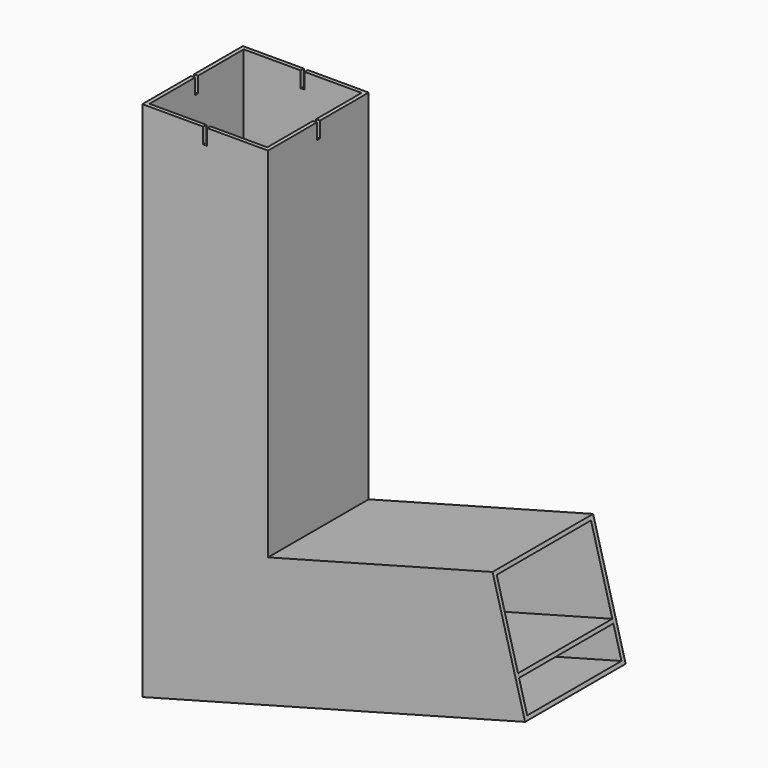
from build123d import *

# Parameters (mm, degrees)
F0_W     = 101.6
F0_H     = 101.6
F0_W_2   = 95.25
F0_H_2   = 95.25
F3_W     = 95.25
F3_H     = 3.175
F3_W_2   = 3.175
F4_DEPTH = 203.2
F5_W     = 3.175
F5_H     = 12.7
F6_DEPTH = 101.601
F7_W     = 3.175
F7_H     = 12.7
F8_DEPTH = 309.2941673686


with BuildPart() as f2:
    # F2: sweep along a path in F1
    with BuildLine(Plane.XZ) as f2_path:
        Line((0, 0), (0, -355.6))
        Line((0, -355.6), (245.3451598774, -289.859962544))
    # F0 (on Top) → F2 (sweep)
    with BuildSketch(Plane.XY):
        Rectangle(F0_W, F0_H)
        Rectangle(F0_W_2, F0_H_2, mode=Mode.SUBTRACT)
    sweep(path=f2_path.line, transition=Transition.RIGHT)

    # F3 (on face) → F4 (join)
    with BuildSketch(Plane(origin=(156.4451598774, 0, 41.9193542489), x_dir=(0, 1, 0), z_dir=(0.9659258263, 0, 0.2588190451))):
        with Locations((0, -364.1207238284)):
            Rectangle(F3_W, F3_H)
        with Locations((49.2125, -364.1207238284)):
            Rectangle(F3_W_2, F3_H)
        with Locations((-49.2125, -364.1207238284)):
            Rectangle(F3_W_2, F3_H)
    extrude(amount=-F4_DEPTH)

    # F5 (on face) → F6 (cut, through all)
    with BuildSketch(Plane(origin=(0, 50.8, 0), x_dir=(-1, 0, 0), z_dir=(0, 1, 0))):
        with Locations((0, -6.35)):
            Rectangle(F5_W, F5_H)
    extrude(amount=-F6_DEPTH, mode=Mode.SUBTRACT)

    # F7 (on face) → F8 (cut, through all)
    with BuildSketch(Plane(origin=(-50.8, 0, 0), x_dir=(0, -1, 0), z_dir=(-1, 0, 0))):
        with Locations((0, -6.35)):
            Rectangle(F7_W, F7_H)
    extrude(amount=-F8_DEPTH, mode=Mode.SUBTRACT)


solid = f2.part
